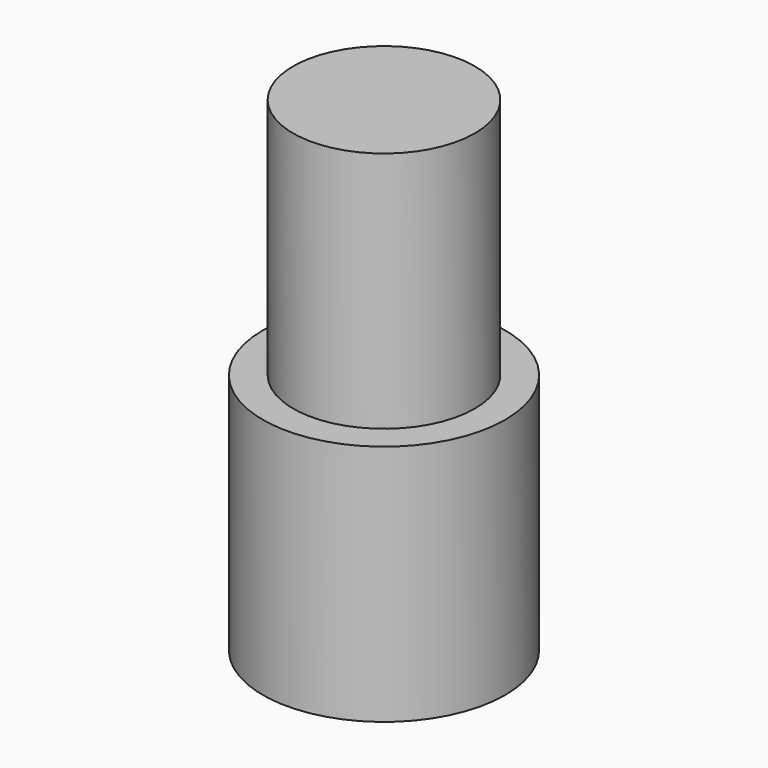
from build123d import *

# Parameters (mm, degrees)
CYLINDER002_R     = 1.5
CYLINDER002_DEPTH = 1
CYLINDER_R        = 2
CYLINDER_DEPTH    = 4
CYLINDER001_R     = 1.5
CYLINDER001_DEPTH = 4


with BuildPart() as cylinder002:
    # Cylinder002 → Cylinder002 (new body)
    with BuildSketch(Plane.XY):
        Circle(CYLINDER002_R)
    extrude(amount=CYLINDER002_DEPTH)


with BuildPart() as cut:
    # Cylinder → Cylinder (new body)
    with BuildSketch(Plane.XY):
        Circle(CYLINDER_R)
    extrude(amount=CYLINDER_DEPTH)

    # Cut: cut Cylinder002
    add(cylinder002.part, mode=Mode.SUBTRACT)


with BuildPart() as fusion:
    # Cylinder001 → Cylinder001 (new body)
    with BuildSketch(Plane.XY.offset(4)):
        Circle(CYLINDER001_R)
    extrude(amount=CYLINDER001_DEPTH)

    # Fusion: union Cut
    add(cut.part)


solid = fusion.part
